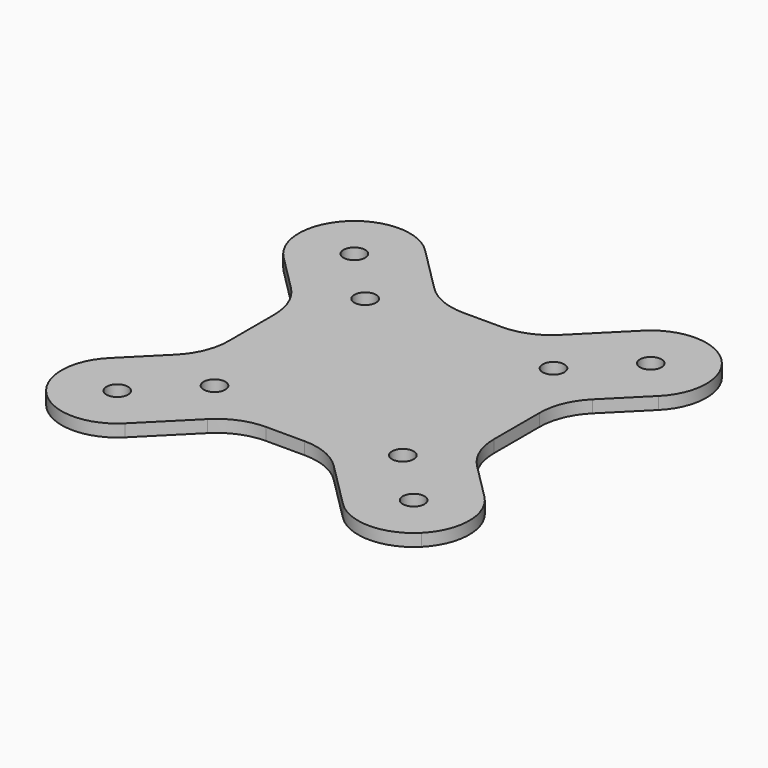
from build123d import *

# Parameters (mm, degrees)
F0_R     = 1.75
F1_DEPTH = 2


with BuildPart() as f1:
    # F0 (on Top) → F1 (new body)
    with BuildSketch(Plane.XY):
        with BuildLine():
            ThreePointArc((-30.363961, 30.363961), (-33, 24), (-30.363961, 17.636039))
            Line((-30.363961, 17.636039), (-24.428932, 11.70101))
            ThreePointArc((-24.428932, 11.70101), (-22.261205, 8.456777), (-21.5, 4.629942))
            Line((-21.5, 4.629942), (-21.5, 0))
            Line((-21.5, 0), (-21.5, -4.629942))
            ThreePointArc((-21.5, -4.629942), (-22.261205, -8.456777), (-24.428932, -11.70101))
            Line((-24.428932, -11.70101), (-30.363961, -17.636039))
            ThreePointArc((-30.363961, -17.636039), (-33, -24), (-30.363961, -30.363961))
            ThreePointArc((-30.363961, -30.363961), (-24, -33), (-17.636039, -30.363961))
            Line((-17.636039, -30.363961), (-10.20101, -22.928932))
            ThreePointArc((-10.20101, -22.928932), (-6.956777, -20.761205), (-3.129942, -20))
            Line((-3.129942, -20), (0, -20))
            Line((0, -20), (3.129942, -20))
            ThreePointArc((3.129942, -20), (6.956777, -20.761205), (10.20101, -22.928932))
            Line((10.20101, -22.928932), (17.636039, -30.363961))
            ThreePointArc((17.636039, -30.363961), (24, -33), (30.363961, -30.363961))
            ThreePointArc((30.363961, -30.363961), (33, -24), (30.363961, -17.636039))
            Line((30.363961, -17.636039), (24.428932, -11.70101))
            ThreePointArc((24.428932, -11.70101), (22.261205, -8.456777), (21.5, -4.629942))
            Line((21.5, -4.629942), (21.5, 0))
            Line((21.5, 0), (21.5, 4.629942))
            ThreePointArc((21.5, 4.629942), (22.261205, 8.456777), (24.428932, 11.70101))
            Line((24.428932, 11.70101), (30.363961, 17.636039))
            ThreePointArc((30.363961, 17.636039), (33, 24), (30.363961, 30.363961))
            ThreePointArc((30.363961, 30.363961), (24, 33), (17.636039, 30.363961))
            Line((17.636039, 30.363961), (10.20101, 22.928932))
            ThreePointArc((10.20101, 22.928932), (6.956777, 20.761205), (3.129942, 20))
            Line((3.129942, 20), (0, 20))
            Line((0, 20), (-3.129942, 20))
            ThreePointArc((-3.129942, 20), (-6.956777, 20.761205), (-10.20101, 22.928932))
            Line((-10.20101, 22.928932), (-17.636039, 30.363961))
            ThreePointArc((-17.636039, 30.363961), (-24, 33), (-30.363961, 30.363961))
        make_face()
        with Locations((-24, -24)):
            Circle(F0_R, mode=Mode.SUBTRACT)
        with Locations((-15.25, -15.25)):
            Circle(F0_R, mode=Mode.SUBTRACT)
        with Locations((24, -24)):
            Circle(F0_R, mode=Mode.SUBTRACT)
        with Locations((15.25, -15.25)):
            Circle(F0_R, mode=Mode.SUBTRACT)
        with Locations((-15.25, 15.25)):
            Circle(F0_R, mode=Mode.SUBTRACT)
        with Locations((-24, 24)):
            Circle(F0_R, mode=Mode.SUBTRACT)
        with Locations((15.25, 15.25)):
            Circle(F0_R, mode=Mode.SUBTRACT)
        with Locations((24, 24)):
            Circle(F0_R, mode=Mode.SUBTRACT)
    extrude(amount=F1_DEPTH)


solid = f1.part
